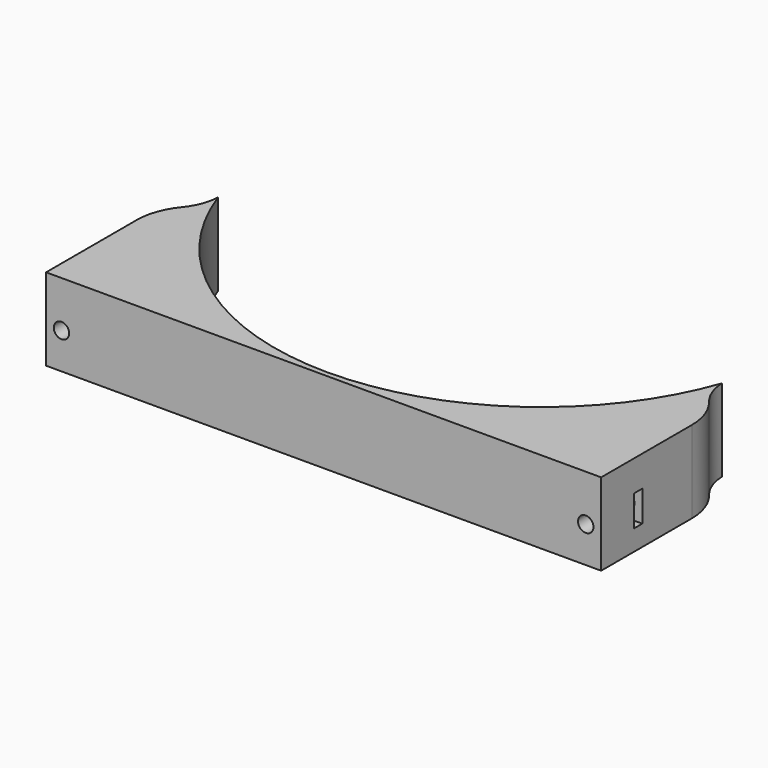
from build123d import *

# Parameters (mm, degrees)
CYLINDER1036_R               = 1.5
CYLINDER1036_DEPTH           = 20
CYLINDER1034_R               = 1.5
CYLINDER1034_DEPTH           = 20
CYLINDER1031_R               = 1.5
CYLINDER1031_DEPTH           = 20
CYLINDER1035_R               = 1.5
CYLINDER1035_DEPTH           = 20
BOX431_W                     = 6
BOX431_H                     = 2
BOX431_DEPTH                 = 6
BOX432_W                     = 6
BOX432_H                     = 2
BOX432_DEPTH                 = 6
BOX430_W                     = 6
BOX430_H                     = 2
BOX430_DEPTH                 = 6
BOX429_W                     = 6
BOX429_H                     = 2
BOX429_DEPTH                 = 6
CYLINDER1038_R               = 4
CYLINDER1038_DEPTH           = 20
CYLINDER1038_PLACEMENT_ANGLE = 45
CYLINDER1037_R               = 4
CYLINDER1037_DEPTH           = 20
CYLINDER1037_PLACEMENT_ANGLE = 45
CYLINDER1032_R               = 10
CYLINDER1032_DEPTH           = 40
CYLINDER1039_R               = 10
CYLINDER1039_DEPTH           = 40
CYLINDER1033_R               = 52
CYLINDER1033_DEPTH           = 20
BOX433_W                     = 108
BOX433_H                     = 36
BOX433_DEPTH                 = 16
FILLET_R                     = 12


with BuildPart() as obj1:
    # Cylinder1036 → Cylinder1036 (new body)
    with BuildSketch(Plane(origin=(20, -40, -5), x_dir=(1, 0, 0), z_dir=(0, -1, 0))):
        Circle(CYLINDER1036_R)
    extrude(amount=CYLINDER1036_DEPTH)


with BuildPart() as obj2:
    # Cylinder1034 → Cylinder1034 (new body)
    with BuildSketch(Plane(origin=(51, -40, 7), x_dir=(1, 0, 0), z_dir=(0, -1, 0))):
        Circle(CYLINDER1034_R)
    extrude(amount=CYLINDER1034_DEPTH)


with BuildPart() as obj3:
    # Cylinder1031 → Cylinder1031 (new body)
    with BuildSketch(Plane(origin=(-51, -40, 7), x_dir=(1, 0, 0), z_dir=(0, -1, 0))):
        Circle(CYLINDER1031_R)
    extrude(amount=CYLINDER1031_DEPTH)


with BuildPart() as compound823:
    # Cylinder1035 → Cylinder1035 (new body)
    with BuildSketch(Plane(origin=(-20, -40, -5), x_dir=(1, 0, 0), z_dir=(0, -1, 0))):
        Circle(CYLINDER1035_R)
    extrude(amount=CYLINDER1035_DEPTH)

    # Compound823: union obj1, obj2, obj3
    add(obj1.part)
    add(obj2.part)
    add(obj3.part)


with BuildPart() as krychle431:
    # Box431 → Box431 (new body)
    with BuildSketch(Plane(origin=(17, -47, -8), x_dir=(1, 0, 0), z_dir=(0, 0, 1))):
        with Locations((3, 1)):
            Rectangle(BOX431_W, BOX431_H)
    extrude(amount=BOX431_DEPTH)


with BuildPart() as krychle432:
    # Box432 → Box432 (new body)
    with BuildSketch(Plane(origin=(48, -45, 4), x_dir=(1, 0, 0), z_dir=(0, 0, 1))):
        with Locations((3, 1)):
            Rectangle(BOX432_W, BOX432_H)
    extrude(amount=BOX432_DEPTH)


with BuildPart() as krychle430:
    # Box430 → Box430 (new body)
    with BuildSketch(Plane(origin=(-54, -45, 4), x_dir=(1, 0, 0), z_dir=(0, 0, 1))):
        with Locations((3, 1)):
            Rectangle(BOX430_W, BOX430_H)
    extrude(amount=BOX430_DEPTH)


with BuildPart() as compound824:
    # Box429 → Box429 (new body)
    with BuildSketch(Plane(origin=(-23, -47, -8), x_dir=(1, 0, 0), z_dir=(0, 0, 1))):
        with Locations((3, 1)):
            Rectangle(BOX429_W, BOX429_H)
    extrude(amount=BOX429_DEPTH)

    # Compound824: union Krychle431, Krychle432, Krychle430
    add(krychle431.part)
    add(krychle432.part)
    add(krychle430.part)


with BuildPart() as obj4:
    # Cylinder1038 → Cylinder1038 (new body)
    with BuildSketch(Plane.XY):
        Circle(CYLINDER1038_R)
    extrude(amount=CYLINDER1038_DEPTH)


with BuildPart() as obj4_1:
    # Cylinder1038 placement: moved
    add(obj4.part.moved(Location((39.6, -39.6, -10))).rotate(Axis((39.6, -39.6, -10), (0, 0, 1)), CYLINDER1038_PLACEMENT_ANGLE))


with BuildPart() as compound822:
    # Cylinder1037 → Cylinder1037 (new body)
    with BuildSketch(Plane.XY):
        Circle(CYLINDER1037_R)
    extrude(amount=CYLINDER1037_DEPTH)


with BuildPart() as compound822_1:
    # Cylinder1037 placement: moved
    add(compound822.part.moved(Location((-39.6, -39.6, -10))).rotate(Axis((-39.6, -39.6, -10), (0, 0, -1)), CYLINDER1037_PLACEMENT_ANGLE))

    # Compound822: union obj4
    add(obj4_1.part)


with BuildPart() as obj5:
    # Cylinder1032 → Cylinder1032 (new body)
    with BuildSketch(Plane(origin=(-59, -17, 0), x_dir=(1, 0, 0), z_dir=(0, 0, 1))):
        Circle(CYLINDER1032_R)
    extrude(amount=CYLINDER1032_DEPTH)


with BuildPart() as compound825:
    # Cylinder1039 → Cylinder1039 (new body)
    with BuildSketch(Plane(origin=(59, -17, 0), x_dir=(1, 0, 0), z_dir=(0, 0, 1))):
        Circle(CYLINDER1039_R)
    extrude(amount=CYLINDER1039_DEPTH)

    # Compound825: union obj5
    add(obj5.part)


with BuildPart() as obj6:
    # Cylinder1033 → Cylinder1033 (new body)
    with BuildSketch(Plane.XY.offset(20)):
        Circle(CYLINDER1033_R)
    extrude(amount=CYLINDER1033_DEPTH)


with BuildPart() as fillet_body:
    # Box433 → Box433 (new body)
    with BuildSketch(Plane(origin=(-54, -53, 20), x_dir=(1, 0, 0), z_dir=(0, 0, 1))):
        with Locations((54, 18)):
            Rectangle(BOX433_W, BOX433_H)
    extrude(amount=BOX433_DEPTH)

    # Cut432: cut obj6
    add(obj6.part, mode=Mode.SUBTRACT)


with BuildPart() as fillet_body_1:
    # Cut432 placement: moved
    add(fillet_body.part.moved(Location((0, 0, -20))))

    # Cut433: cut Compound825
    add(compound825.part, mode=Mode.SUBTRACT)

    # Cut431: cut Compound822
    add(compound822_1.part, mode=Mode.SUBTRACT)

    # Cut430: cut Compound824
    add(compound824.part, mode=Mode.SUBTRACT)

    # Cut429: cut Compound823
    add(compound823.part, mode=Mode.SUBTRACT)

    # Fillet
    fillet_edges = [fillet_body_1.edges().sort_by_distance(p)[0] for p in [
        (-54, -25.660254, 8),
        (54, -25.660254, 8),
    ]]
    fillet(fillet_edges, radius=FILLET_R)


solid = fillet_body_1.part
